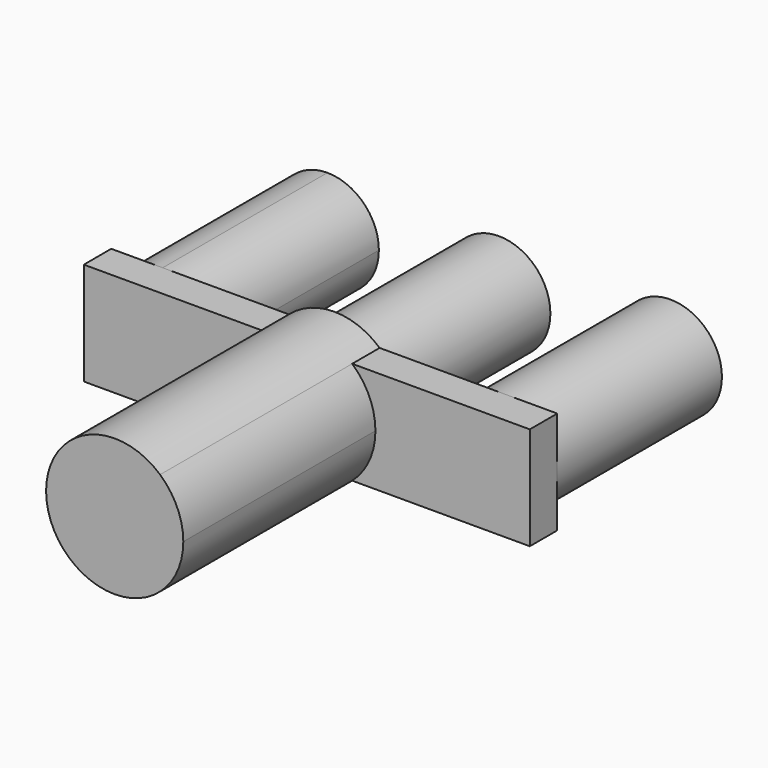
from build123d import *

# Parameters (mm, degrees)
F1_DEPTH = 101.6
F2_DEPTH = 12.7
F3_DEPTH = 76.2


with BuildPart() as f1:
    # F0 (on Front) → F1 (new body)
    with BuildSketch(Plane.XZ):
        with BuildLine():
            ThreePointArc((25.4, 0), (23.1505208253, 10.4505208253), (16.8005208253, 19.05))
            Line((16.8005208253, 19.05), (-5.96e-08, 19.05))
            ThreePointArc((-5.96e-08, 19.05), (13.4703841605, 13.4703842027), (19.05, 0))
            ThreePointArc((19.05, 0), (13.4703841555, -13.4703842077), (-7.38e-08, -19.05))
            Line((-7.38e-08, -19.05), (16.8005208253, -19.05))
            ThreePointArc((16.8005208253, -19.05), (23.1505208253, -10.4505208253), (25.4, 0))
        make_face()
        with BuildLine():
            Line((-5.96e-08, 19.05), (16.8005208253, 19.05))
            ThreePointArc((16.8005208253, 19.05), (0, 25.4), (-16.8005208253, 19.05))
            Line((-16.8005208253, 19.05), (-5.96e-08, 19.05))
        make_face()
        with BuildLine():
            ThreePointArc((-7.38e-08, -19.05), (-19.05, 7.1e-09), (-5.96e-08, 19.05))
            Line((-5.96e-08, 19.05), (-16.8005208253, 19.05))
            ThreePointArc((-16.8005208253, 19.05), (-25.4, 0), (-16.8005208253, -19.05))
            Line((-16.8005208253, -19.05), (-7.38e-08, -19.05))
        make_face()
        with BuildLine():
            ThreePointArc((-16.8005208253, -19.05), (0, -25.4), (16.8005208253, -19.05))
            Line((16.8005208253, -19.05), (-7.38e-08, -19.05))
            Line((-7.38e-08, -19.05), (-16.8005208253, -19.05))
        make_face()
        with BuildLine():
            ThreePointArc((19.05, 0), (13.4703841605, 13.4703842027), (-5.96e-08, 19.05))
            ThreePointArc((-5.96e-08, 19.05), (-19.05, 7.1e-09), (-7.38e-08, -19.05))
            ThreePointArc((-7.38e-08, -19.05), (13.4703841555, -13.4703842077), (19.05, 0))
        make_face()
    extrude(amount=F1_DEPTH)

    # F0 (on Front) → F2 (join)
    with BuildSketch(Plane.XZ):
        with BuildLine():
            ThreePointArc((63.5, -19.05), (44.45, 0), (63.5, 19.05))
            Line((63.5, 19.05), (16.8005208253, 19.05))
            ThreePointArc((16.8005208253, 19.05), (23.1505208253, 10.4505208253), (25.4, 0))
            ThreePointArc((25.4, 0), (23.1505208253, -10.4505208253), (16.8005208253, -19.05))
            Line((16.8005208253, -19.05), (63.5, -19.05))
        make_face()
        with BuildLine():
            Line((82.55, -19.05), (82.55, 0))
            ThreePointArc((82.55, 0), (76.9703841816, -13.4703841816), (63.5, -19.05))
            Line((63.5, -19.05), (82.55, -19.05))
        make_face()
        with BuildLine():
            ThreePointArc((82.55, 0), (76.9703841816, 13.4703841816), (63.5, 19.05))
            ThreePointArc((63.5, 19.05), (44.45, 0), (63.5, -19.05))
            ThreePointArc((63.5, -19.05), (76.9703841816, -13.4703841816), (82.55, 0))
        make_face()
        with BuildLine():
            Line((82.55, 0), (82.55, 19.05))
            Line((82.55, 19.05), (63.5, 19.05))
            ThreePointArc((63.5, 19.05), (76.9703841816, 13.4703841816), (82.55, 0))
        make_face()
        with BuildLine():
            ThreePointArc((25.4, 0), (23.1505208253, 10.4505208253), (16.8005208253, 19.05))
            Line((16.8005208253, 19.05), (-5.96e-08, 19.05))
            ThreePointArc((-5.96e-08, 19.05), (13.4703841605, 13.4703842027), (19.05, 0))
            ThreePointArc((19.05, 0), (13.4703841555, -13.4703842077), (-7.38e-08, -19.05))
            Line((-7.38e-08, -19.05), (16.8005208253, -19.05))
            ThreePointArc((16.8005208253, -19.05), (23.1505208253, -10.4505208253), (25.4, 0))
        make_face()
        with BuildLine():
            ThreePointArc((19.05, 0), (13.4703841605, 13.4703842027), (-5.96e-08, 19.05))
            ThreePointArc((-5.96e-08, 19.05), (-19.05, 7.1e-09), (-7.38e-08, -19.05))
            ThreePointArc((-7.38e-08, -19.05), (13.4703841555, -13.4703842077), (19.05, 0))
        make_face()
        with BuildLine():
            ThreePointArc((-7.38e-08, -19.05), (-19.05, 7.1e-09), (-5.96e-08, 19.05))
            Line((-5.96e-08, 19.05), (-16.8005208253, 19.05))
            ThreePointArc((-16.8005208253, 19.05), (-25.4, 0), (-16.8005208253, -19.05))
            Line((-16.8005208253, -19.05), (-7.38e-08, -19.05))
        make_face()
        with BuildLine():
            ThreePointArc((-16.8005208253, -19.05), (-25.4, 0), (-16.8005208253, 19.05))
            Line((-16.8005208253, 19.05), (-63.5, 19.05))
            ThreePointArc((-63.5, 19.05), (-50.0296158184, 13.4703841816), (-44.45, 0))
            ThreePointArc((-44.45, 0), (-50.0296158184, -13.4703841816), (-63.5, -19.05))
            Line((-63.5, -19.05), (-16.8005208253, -19.05))
        make_face()
        with BuildLine():
            ThreePointArc((-44.45, 0), (-50.0296158184, 13.4703841816), (-63.5, 19.05))
            ThreePointArc((-63.5, 19.05), (-76.9703841264, 13.4703842368), (-82.55, 1.56e-07))
            ThreePointArc((-82.55, 1.56e-07), (-76.9703842368, -13.4703841264), (-63.5, -19.05))
            ThreePointArc((-63.5, -19.05), (-50.0296158184, -13.4703841816), (-44.45, 0))
        make_face()
        with BuildLine():
            ThreePointArc((-82.55, 1.56e-07), (-76.9703841264, 13.4703842368), (-63.5, 19.05))
            Line((-63.5, 19.05), (-82.55, 19.05))
            Line((-82.55, 19.05), (-82.55, 1.56e-07))
        make_face()
        with BuildLine():
            ThreePointArc((-63.5, -19.05), (-76.9703842368, -13.4703841264), (-82.55, 1.56e-07))
            Line((-82.55, 1.56e-07), (-82.55, -19.05))
            Line((-82.55, -19.05), (-63.5, -19.05))
        make_face()
    extrude(amount=F2_DEPTH)

    # F0 (on Front) → F3 (join)
    with BuildSketch(Plane.XZ):
        with BuildLine():
            ThreePointArc((19.05, 0), (13.4703841605, 13.4703842027), (-5.96e-08, 19.05))
            ThreePointArc((-5.96e-08, 19.05), (-19.05, 7.1e-09), (-7.38e-08, -19.05))
            ThreePointArc((-7.38e-08, -19.05), (13.4703841555, -13.4703842077), (19.05, 0))
        make_face()
        with BuildLine():
            ThreePointArc((-44.45, 0), (-50.0296158184, 13.4703841816), (-63.5, 19.05))
            ThreePointArc((-63.5, 19.05), (-76.9703841264, 13.4703842368), (-82.55, 1.56e-07))
            ThreePointArc((-82.55, 1.56e-07), (-76.9703842368, -13.4703841264), (-63.5, -19.05))
            ThreePointArc((-63.5, -19.05), (-50.0296158184, -13.4703841816), (-44.45, 0))
        make_face()
        with BuildLine():
            ThreePointArc((82.55, 0), (76.9703841816, 13.4703841816), (63.5, 19.05))
            ThreePointArc((63.5, 19.05), (44.45, 0), (63.5, -19.05))
            ThreePointArc((63.5, -19.05), (76.9703841816, -13.4703841816), (82.55, 0))
        make_face()
    extrude(amount=-F3_DEPTH)


solid = f1.part
